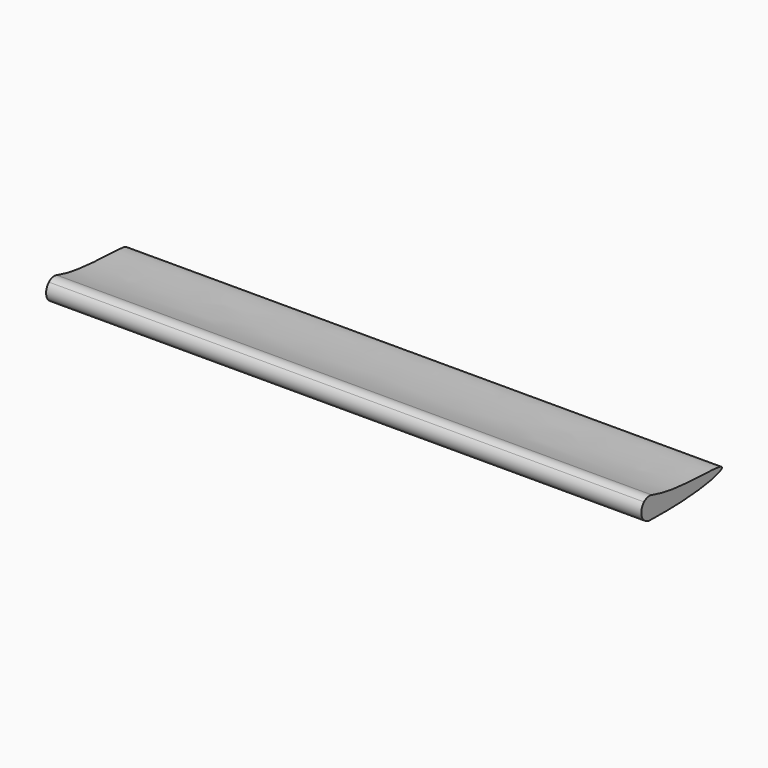
from build123d import *

# Parameters (mm, degrees)
F1_DEPTH = 1524


with BuildPart() as f1:
    # F0 (on Right) → F1 (new body)
    with BuildSketch(Plane.YZ):
        with BuildLine():
            add(Edge.make_bspline(
                [(-14.2743506895, 26.2395068337), (65.0235138216, 0.6132824351), (303.0278421372, 16.8505007815), (153.6569446325, -32.8429564834), (-20.1574191451, -28.2286747178)],
                knots=[0.0122126056, 0.0122126056, 0.0122126056, 0.0122126056, 0.4999216552, 1, 1, 1, 1], degree=3))
            ThreePointArc((-14.2743506895, 26.2395068337), (-27.5928066364, 26.8658762255), (-39.3935865538, 20.6598146107))
            ThreePointArc((-39.3935865538, 20.6598146107), (-46.425815201, -10.3358330566), (-20.1574191451, -28.2286747178))
        make_face()
    extrude(amount=F1_DEPTH)


solid = f1.part
